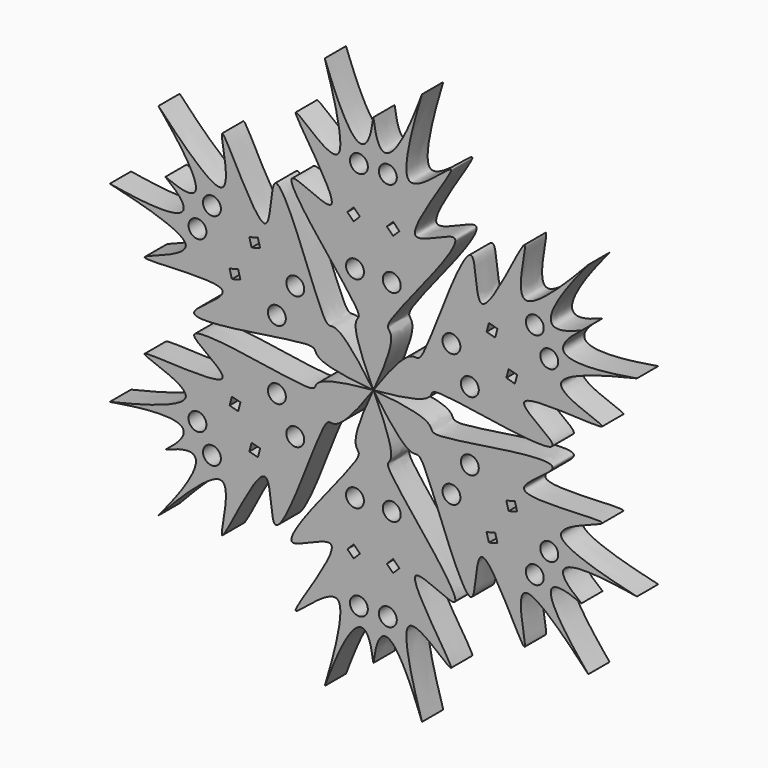
from build123d import *

# Parameters (mm, degrees)
F0_R     = 2.0214236623
F1_DEPTH = 6
F3_COUNT = 6


with BuildPart() as f1:
    # F0 (on Front) → F1 (new body)
    with BuildSketch(Plane.XZ):
        with BuildLine():
            add(Edge.make_bspline(
                [(0, 54.2514004651), (2.0800780094, 38.0460051174), (17.9638506092, 81.9368984801), (0.5113645915, 32.5498147003), (26.076982803, 59.5336296204), (1.2532157997, 26.5879551305), (26.5235263524, 42.9436570936), (5.9484156729, 18.4939859446), (1.7322382249, 12.1004597591), (6.092965232, 13.0008971382), (0, 0)],
                knots=[0, 0, 0, 0, 0.1245481243, 0.2687738633, 0.3819696033, 0.5259469852, 0.6289828592, 0.7856424532, 0.8716881525, 1, 1, 1, 1], degree=3))
            add(Edge.make_bspline(
                [(0, 54.2514004651), (-2.0800780094, 38.0460051174), (-17.9638506092, 81.9368984801), (-0.5113645915, 32.5498147003), (-26.076982803, 59.5336296204), (-1.2532157997, 26.5879551305), (-26.5235263524, 42.9436570936), (-5.9484156729, 18.4939859446), (-1.7322382249, 12.1004597591), (-6.092965232, 13.0008971382), (0, 0)],
                knots=[0, 0, 0, 0, 0.1245481243, 0.2687738633, 0.3819696033, 0.5259469852, 0.6289828592, 0.7856424532, 0.8716881525, 1, 1, 1, 1], degree=3))
        make_face()
        with Locations((-4.1562370025, 22.760014981)):
            Circle(F0_R, mode=Mode.SUBTRACT)
        Polygon((-5.867321277, 33.5132293403), (-4.4531077146, 34.9274429027), (-3.0388941523, 33.5132293403), (-4.4531077146, 32.0990157779), align=None, mode=Mode.SUBTRACT)
        with Locations((4.1562370025, 22.760014981)):
            Circle(F0_R, mode=Mode.SUBTRACT)
        Polygon((3.0388941523, 33.5132293403), (4.4531077146, 34.9274429027), (5.867321277, 33.5132293403), (4.4531077146, 32.0990157779), align=None, mode=Mode.SUBTRACT)
        with Locations((-3.2685867045, 43.9837314188)):
            Circle(F0_R, mode=Mode.SUBTRACT)
        with Locations((3.2685867045, 43.9837314188)):
            Circle(F0_R, mode=Mode.SUBTRACT)
    extrude(amount=F1_DEPTH)


with BuildPart() as f3_1:
    # F3: instance of F1
    add(f1.part.rotate(Axis((0, -33.4499999881, 0), (0, -1, 0)), 1 * 360 / F3_COUNT))


with BuildPart() as f3_2:
    # F3: instance of F1
    add(f1.part.rotate(Axis((0, -33.4499999881, 0), (0, -1, 0)), 2 * 360 / F3_COUNT))


with BuildPart() as f3_3:
    # F3: instance of F1
    add(f1.part.rotate(Axis((0, -33.4499999881, 0), (0, -1, 0)), 3 * 360 / F3_COUNT))


with BuildPart() as f3_4:
    # F3: instance of F1
    add(f1.part.rotate(Axis((0, -33.4499999881, 0), (0, -1, 0)), 4 * 360 / F3_COUNT))


with BuildPart() as f3_5:
    # F3: instance of F1
    add(f1.part.rotate(Axis((0, -33.4499999881, 0), (0, -1, 0)), 5 * 360 / F3_COUNT))


solid = Compound([f1.part, f3_1.part, f3_2.part, f3_3.part, f3_4.part, f3_5.part])
